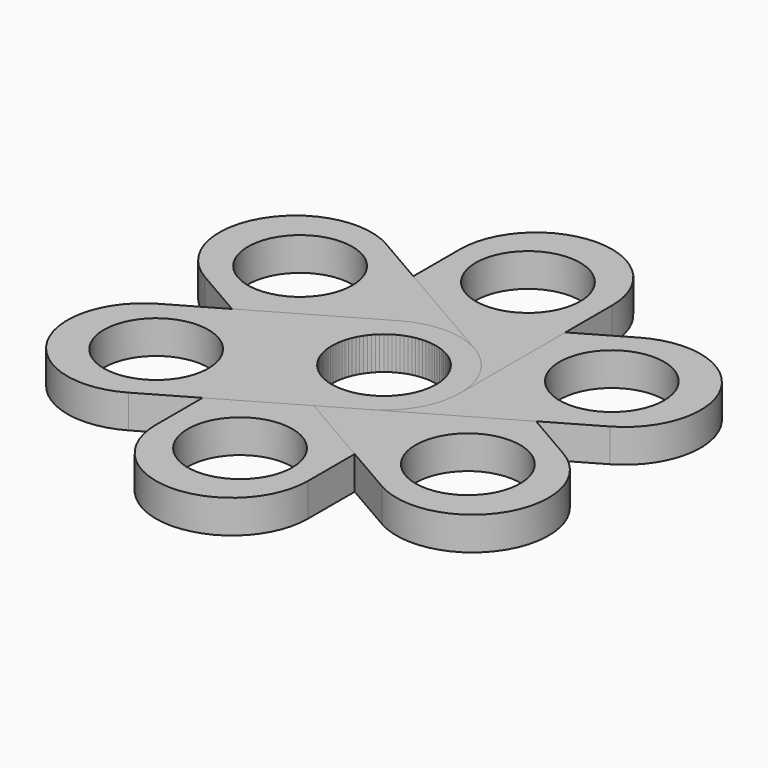
from build123d import *

# Parameters (mm, degrees)
F1_DEPTH = 7
F2_R     = 11
F3_DEPTH = 7.001
F5_COUNT = 6


with BuildPart() as f1:
    # F0 (on Top) → F1 (new body)
    with BuildSketch(Plane.XY):
        with BuildLine():
            ThreePointArc((-16, 0), (0, -16), (16, 0))
            ThreePointArc((16, 0), (0, 16), (-16, 0))
        make_face()
        with BuildLine():
            Line((16, -40), (16, 0))
            ThreePointArc((16, 0), (0, -16), (-16, 0))
            Line((-16, 0), (-16, -40))
            ThreePointArc((-16, -40), (0, -24), (16, -40))
        make_face()
        with BuildLine():
            ThreePointArc((-16, -40), (0, -56), (16, -40))
            ThreePointArc((16, -40), (0, -24), (-16, -40))
        make_face()
    extrude(amount=F1_DEPTH)

    # F2 (on face) → F3 (cut, through all)
    with BuildSketch(Plane.XY.offset(7)):
        Circle(F2_R)
        with Locations((0, -37.875954)):
            Circle(F2_R)
    extrude(amount=-F3_DEPTH, mode=Mode.SUBTRACT)


with BuildPart() as f5_1:
    # F5: instance of F1
    add(f1.part.rotate(Axis((0, 0, 13.241593), (0, 0, 1)), 1 * 360 / F5_COUNT))


with BuildPart() as f5_2:
    # F5: instance of F1
    add(f1.part.rotate(Axis((0, 0, 13.241593), (0, 0, 1)), 2 * 360 / F5_COUNT))


with BuildPart() as f5_3:
    # F5: instance of F1
    add(f1.part.rotate(Axis((0, 0, 13.241593), (0, 0, 1)), 3 * 360 / F5_COUNT))


with BuildPart() as f5_4:
    # F5: instance of F1
    add(f1.part.rotate(Axis((0, 0, 13.241593), (0, 0, 1)), 4 * 360 / F5_COUNT))


with BuildPart() as f5_5:
    # F5: instance of F1
    add(f1.part.rotate(Axis((0, 0, 13.241593), (0, 0, 1)), 5 * 360 / F5_COUNT))


solid = Compound([f1.part, f5_1.part, f5_2.part, f5_3.part, f5_4.part, f5_5.part])
